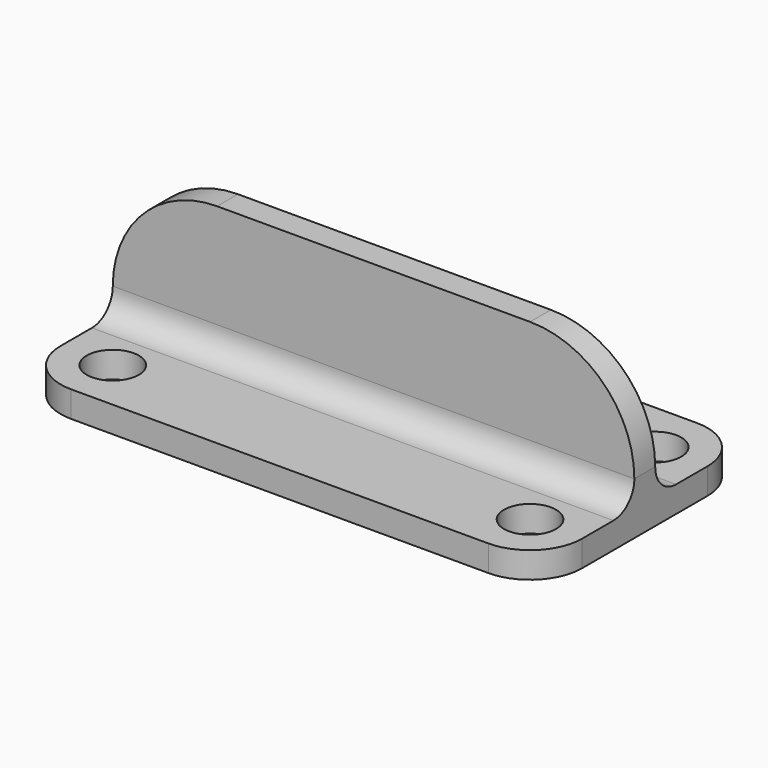
from build123d import *

# Parameters (mm, degrees)
SKETCH_W     = 100
SKETCH_H     = 50
PAD_DEPTH    = 5
SKETCH001_R  = 5
POCKET_DEPTH = 5
SKETCH002_W  = 100
SKETCH002_H  = 5
PAD001_DEPTH = 25
FILLET_R     = 20
FILLET001_R  = 10
FILLET002_R  = 5


with BuildPart() as part:
    # Sketch → Pad (new body)
    with BuildSketch(Plane.XY):
        Rectangle(SKETCH_W, SKETCH_H)
    extrude(amount=PAD_DEPTH)

    # Sketch001 (on Face6 of Pad) → Pocket (cut)
    with BuildSketch(Plane.XY.offset(5)):
        with Locations((40, 15)):
            Circle(SKETCH001_R)
        with Locations((40, -15)):
            Circle(SKETCH001_R)
        with Locations((-40, 15)):
            Circle(SKETCH001_R)
        with Locations((-40, -15)):
            Circle(SKETCH001_R)
    extrude(amount=-POCKET_DEPTH, mode=Mode.SUBTRACT)

    # Sketch002 (on Face5 of Pocket) → Pad001 (join)
    with BuildSketch(Plane.XY.offset(5)):
        Rectangle(SKETCH002_W, SKETCH002_H)
    extrude(amount=PAD001_DEPTH)

    # Fillet
    fillet_edges = [part.edges().sort_by_distance(p)[0] for p in [
        (50, 0, 30),
        (-50, 0, 30),
    ]]
    fillet(fillet_edges, radius=FILLET_R)

    # Fillet001
    fillet001_edges = [part.edges().sort_by_distance(p)[0] for p in [
        (50, -25, 2.5),
        (-50, -25, 2.5),
        (-50, 25, 2.5),
        (50, 25, 2.5),
    ]]
    fillet(fillet001_edges, radius=FILLET001_R)

    # Fillet002
    fillet002_edges = [part.edges().sort_by_distance(p)[0] for p in [
        (0, -2.5, 5),
        (0, 2.5, 5),
    ]]
    fillet(fillet002_edges, radius=FILLET002_R)


solid = part.part
